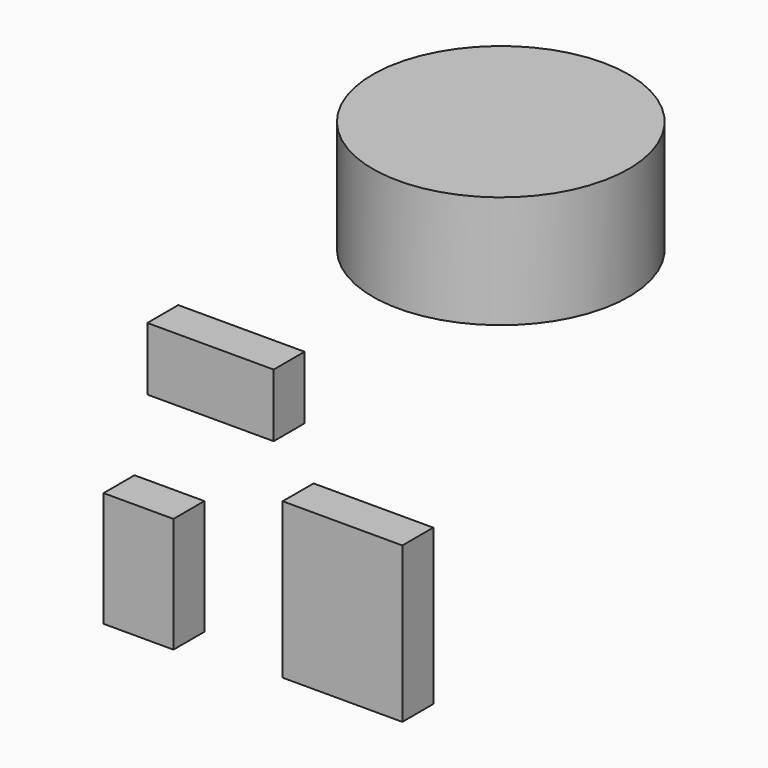
from build123d import *

# Parameters (mm, degrees)
F1_W     = 82.973331
F1_H     = 41.452661
F1_W_2   = 45.931667
F1_H_2   = 75.640671
F1_W_3   = 78.634173
F1_H_3   = 102.077767
F2_DEPTH = 25.4
F3_W     = 84.099084
F3_H     = 73.935144


with BuildPart() as f2:
    # F1 (on Front) → F2 (new body)
    with BuildSketch(Plane.XZ):
        with Locations((-26.881694, 113.207408)):
            Rectangle(F1_W, F1_H)
        with Locations((-74.189186, -11.679921)):
            Rectangle(F1_W_2, F1_H_2)
        with Locations((59.848733, 8.651405)):
            Rectangle(F1_W_3, F1_H_3)
    extrude(amount=F2_DEPTH)


with BuildPart() as f0:
    # F3 (on Right) → F0 (revolve)
    with BuildSketch(Plane.YZ):
        with Locations((221.463665, 152.332369)):
            Rectangle(F3_W, F3_H)
    revolve(axis=Axis((0, 179.414123, 152.332369), (0, 0, 1)))


solid = Compound([f2.part, f0.part])
